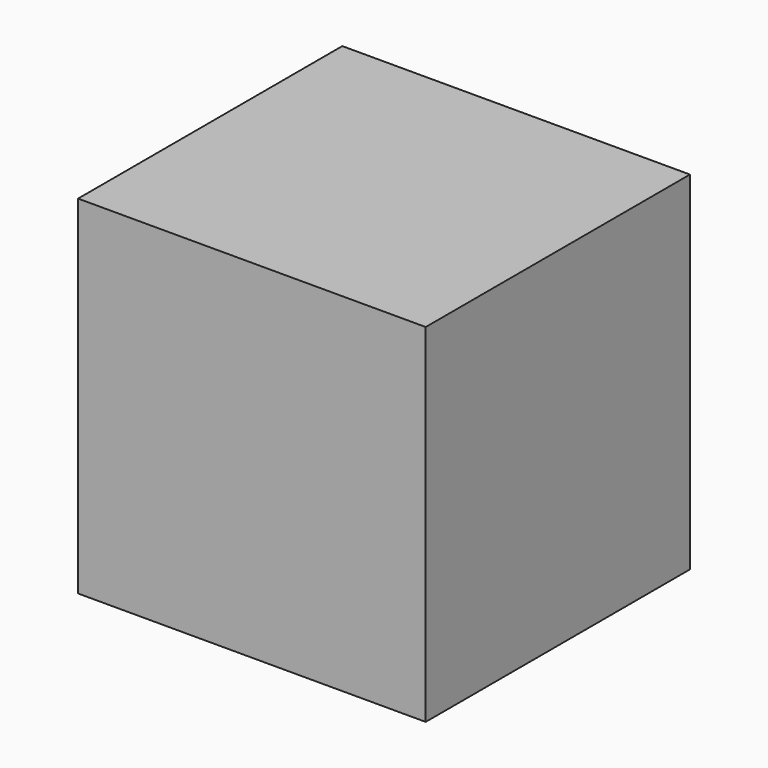
from build123d import *

# Parameters (mm, degrees)
F0_W     = 20
F0_H     = 20
F1_DEPTH = 20
F3_W     = 20
F3_H     = 20
F3_R     = 2.6
F6_DEPTH = 1
F5_R     = 2.6
F4_R     = 2.6
F8_DEPTH = 2


with BuildPart() as f1:
    # F0 (on Front) → F1 (new body)
    with BuildSketch(Plane.XZ):
        with Locations((10, 10)):
            Rectangle(F0_W, F0_H)
    extrude(amount=F1_DEPTH)

    # F3 (on face) → F6 (cut)
    with BuildSketch(Plane(origin=(0, 0, 0), x_dir=(-1, 0, 0), z_dir=(0, 1, 0))):
        with Locations((-10, 10)):
            Rectangle(F3_W, F3_H)
        with Locations((-15, 5)):
            Circle(F3_R, mode=Mode.SUBTRACT)
        with Locations((-5, 5)):
            Circle(F3_R, mode=Mode.SUBTRACT)
        with Locations((-15, 15)):
            Circle(F3_R, mode=Mode.SUBTRACT)
        with Locations((-10, 10)):
            Circle(F3_R, mode=Mode.SUBTRACT)
        with Locations((-5, 15)):
            Circle(F3_R, mode=Mode.SUBTRACT)
        with Locations((-5, 15)):
            Circle(F3_R)
    extrude(amount=-F6_DEPTH, mode=Mode.SUBTRACT)

    # F5 (on face) + F4 (on face) → F8 (cut)
    with BuildSketch(Plane(origin=(0, 0, 0), x_dir=(-1, 0, 0), z_dir=(0, 1, 0))):
        with Locations((-15, 15)):
            Circle(F5_R)
        with Locations((-5, 15)):
            Circle(F5_R)
        with Locations((-10, 10)):
            Circle(F5_R)
        with Locations((-5, 5)):
            Circle(F5_R)
    with BuildSketch(Plane(origin=(0, 0, 0), x_dir=(-1, 0, 0), z_dir=(0, 1, 0))):
        with Locations((-15, 5)):
            Circle(F4_R)
    extrude(amount=-F8_DEPTH, mode=Mode.SUBTRACT)


solid = f1.part
